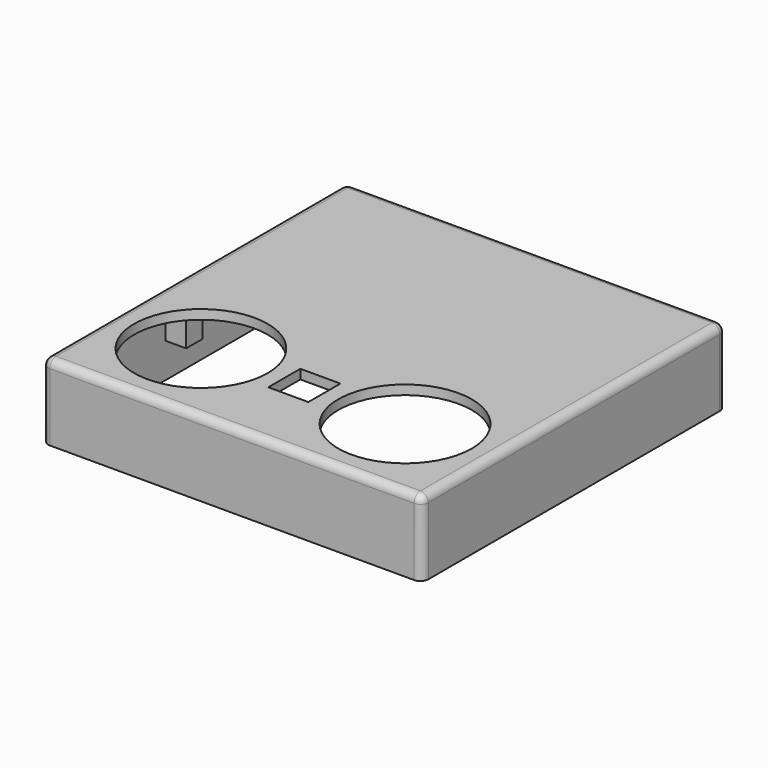
from build123d import *

# Parameters (mm, degrees)
F0_W     = 23
F0_H     = 23
F0_R     = 8.5
F1_DEPTH = 0.6
F3_DEPTH = 9.6
F4_W     = 2.6
F4_H     = 2.6
F4_R     = 0.6
F5_DEPTH = 4
F6_W     = 8
F6_H     = 3
F7_DEPTH = 1.4
F8_R     = 1


with BuildPart() as f1:
    # F0 (on Top) → F1 (new body, symmetric)
    with BuildSketch(Plane.XY):
        with Locations((-11.5, 11.5)):
            Rectangle(F0_W, F0_H)
        Polygon((0, -10.131208), (0, 0), (-23, 0), (-23, -23), (0, -23), (0, -15.231208), (-2.55, -15.231208), (-2.55, -10.131208), align=None)
        with Locations((-13, -12.9)):
            Circle(F0_R, mode=Mode.SUBTRACT)
        with Locations((11.5, 11.5)):
            Rectangle(F0_W, F0_H)
        Polygon((23, 0), (0, 0), (0, -10.131208), (2.55, -10.131208), (2.55, -15.231208), (0, -15.231208), (0, -23), (23, -23), align=None)
        with Locations((13, -12.9)):
            Circle(F0_R, mode=Mode.SUBTRACT)
    extrude(amount=F1_DEPTH, both=True)

    # F2 (on face) → F3 (join)
    with BuildSketch(Plane.XY.offset(0.6)):
        Polygon((-23, 23), (0, 23), (0, 24.2), (-24.2, 24.2), (-24.2, -24.2), (0, -24.2), (0, -23), (-23, -23), align=None)
        Polygon((0, 23), (23, 23), (23, -23), (0, -23), (0, -24.2), (24.2, -24.2), (24.2, 24.2), (0, 24.2), align=None)
    extrude(amount=-F3_DEPTH)

    # F4 (on face) → F5 (join)
    with BuildSketch(Plane(origin=(0, 0, -0.6), x_dir=(1, 0, 0), z_dir=(0, 0, -1))):
        with Locations((21.7, 21.7)):
            Rectangle(F4_W, F4_H)
        with Locations((21.7, 21.7)):
            Circle(F4_R, mode=Mode.SUBTRACT)
        with Locations((-21.7, 21.7)):
            Rectangle(F4_W, F4_H)
        with Locations((-21.7, 21.7)):
            Circle(F4_R, mode=Mode.SUBTRACT)
        with Locations((-21.7, 4.7)):
            Rectangle(F4_W, F4_H)
        with Locations((-21.7, 4.7)):
            Circle(F4_R, mode=Mode.SUBTRACT)
        with Locations((21.7, 4.7)):
            Rectangle(F4_W, F4_H)
        with Locations((21.7, 4.7)):
            Circle(F4_R, mode=Mode.SUBTRACT)
    extrude(amount=F5_DEPTH)

    # F6 (on face) → F7 (cut)
    with BuildSketch(Plane(origin=(-24.2, 0, 0), x_dir=(0, -1, 0), z_dir=(-1, 0, 0))):
        with Locations((-14.2, -2.3)):
            Rectangle(F6_W, F6_H)
    extrude(amount=-F7_DEPTH, mode=Mode.SUBTRACT)

    # F8
    f8_edges = [f1.edges().sort_by_distance(p)[0] for p in [
        (24.2, 0, 0.6),
        (-24.2, 0, 0.6),
        (0, -24.2, 0.6),
        (0, 24.2, 0.6),
        (24.2, -24.2, -4.2),
        (24.2, 24.2, -4.2),
        (-24.2, -24.2, -4.2),
        (-24.2, 24.2, -4.2),
    ]]
    fillet(f8_edges, radius=F8_R)


solid = f1.part
